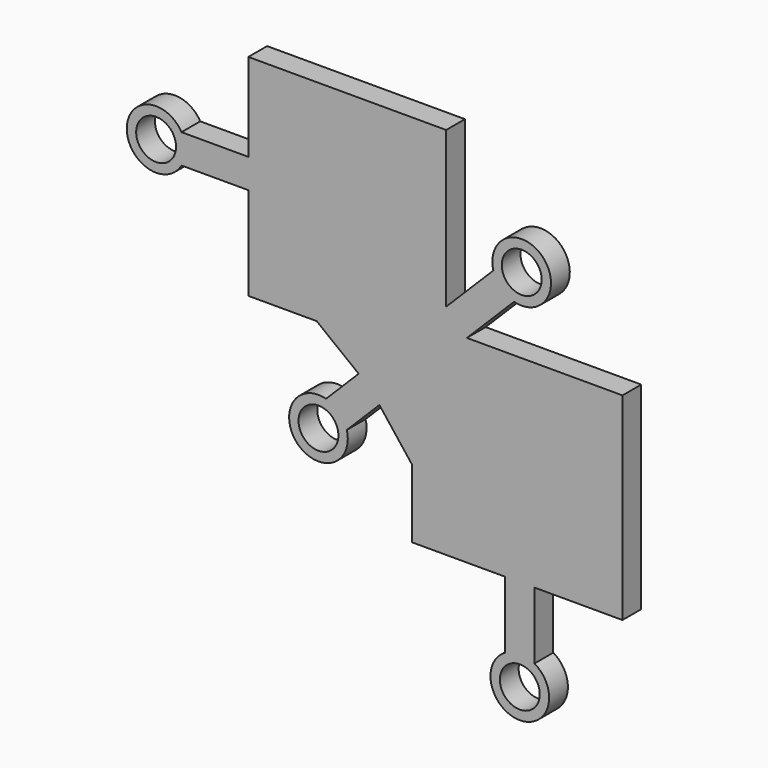
from build123d import *

# Parameters (mm, degrees)
F0_R                 = 4.445
F1_DEPTH             = 5.08
F2_R                 = 4.445
F3_DEPTH             = 25.4
F4_R                 = 4.318
F5_DEPTH             = 25.4
F8_D                 = 6.35
F8_DEPTH             = 22.86
F8_CBORE_D           = 6.35
F8_CBORE_DEPTH       = 12.7
F8_TIP               = 1.9077324654
F8_ON_F7_D           = 6.35
F8_ON_F7_DEPTH       = 22.86
F8_ON_F7_CBORE_D     = 6.35
F8_ON_F7_CBORE_DEPTH = 12.7
F8_ON_F7_TIP         = 1.9077324654


with BuildPart() as f1:
    # F0 (on Front) → F1 (new body)
    with BuildSketch(Plane.XZ):
        with BuildLine():
            Line((16.9093859117, 17.425267489), (27.1303756598, 27.6462572371))
            ThreePointArc((27.1303756598, 27.6462572371), (33.2640046568, 38.2700142946), (22.6402475993, 32.1363852977))
            Line((22.6402475993, 32.1363852977), (12.4192578512, 21.9153955495))
            Line((12.4192578512, 21.9153955495), (12.4192578512, 36.5455265367))
            Line((12.4192578512, 36.5455265367), (12.4192578512, 55.5955265367))
            Line((12.4192578512, 55.5955265367), (-30.3997510844, 55.5955265367))
            Line((-30.3997510844, 55.5955265367), (-30.3997510844, 36.5455265367))
            Line((-30.3997510844, 36.5455265367), (-44.8762217871, 36.5455265367))
            ThreePointArc((-44.8762217871, 36.5455265367), (-56.7254831011, 33.3705265367), (-44.8762217871, 30.1955265367))
            Line((-44.8762217871, 30.1955265367), (-30.3997510844, 30.1955265367))
            Line((-30.3997510844, 30.1955265367), (-30.3997510844, 16.4088443772))
            Line((-30.3997510844, 16.4088443772), (-30.3997510844, 10.0526214838))
            Line((-30.3997510844, 10.0526214838), (-15.6116463411, 10.0526214838))
            Line((-15.6116463411, 10.0526214838), (-6.5234490096, 2.9726886888))
            Line((-6.5234490096, 2.9726886888), (-13.581341862, -4.0852041636))
            ThreePointArc((-13.581341862, -4.0852041636), (-19.714970859, -14.7089612211), (-9.0912138015, -8.5753322242))
            Line((-9.0912138015, -8.5753322242), (-2.033320949, -1.5174393717))
            Line((-2.033320949, -1.5174393717), (5.046611846, -10.6056367033))
            Line((5.046611846, -10.6056367033), (5.046611846, -25.3937414465))
            Line((5.046611846, -25.3937414465), (11.4028347394, -25.3937414465))
            Line((11.4028347394, -25.3937414465), (25.1895168989, -25.3937414465))
            Line((25.1895168989, -25.3937414465), (25.1895168989, -39.8702121492))
            ThreePointArc((25.1895168989, -39.8702121492), (28.3645168989, -51.7194734633), (31.5395168989, -39.8702121492))
            Line((31.5395168989, -39.8702121492), (31.5395168989, -25.3937414465))
            Line((31.5395168989, -25.3937414465), (50.5895168989, -25.3937414465))
            Line((50.5895168989, -25.3937414465), (50.5895168989, 17.425267489))
            Line((50.5895168989, 17.425267489), (31.5395168989, 17.425267489))
            Line((31.5395168989, 17.425267489), (16.9093859117, 17.425267489))
        make_face()
        with Locations((22.6495168989, -7.2694734633)):
            Circle(F0_R, mode=Mode.SUBTRACT)
        with Locations((-12.2754831011, 27.6555265367)):
            Circle(F0_R, mode=Mode.SUBTRACT)
    extrude(amount=F1_DEPTH)

    # F2 (on face) → F3 (join)
    with BuildSketch(Plane.XZ.offset(5.08)):
        with Locations((-12.2754831011, 27.6555265367)):
            Circle(F2_R)
        with Locations((22.6495168989, -7.2694734633)):
            Circle(F2_R)
    extrude(amount=-F3_DEPTH)

    # F4 (on face) → F5 (cut)
    with BuildSketch(Plane(origin=(0, 0, 0), x_dir=(-1, 0, 0), z_dir=(0, 1, 0))):
        with Locations((-28.7738765962, 33.7798862341)):
            Circle(F4_R)
        with Locations((15.2248427984, -10.2188331606)):
            Circle(F4_R)
        with Locations((50.3754831011, 33.3705265367)):
            Circle(F4_R)
        with Locations((-28.3645168989, -45.3694734633)):
            Circle(F4_R)
    extrude(amount=-F5_DEPTH, mode=Mode.SUBTRACT)

    # F8
    with Locations(Plane(origin=(0, 20.32, 0), x_dir=(-1, 0, 0), z_dir=(0, 1, 0))):
        with Locations((-22.6495168989, -7.2694734633)):
            CounterBoreHole(F8_D / 2, F8_CBORE_D / 2, F8_CBORE_DEPTH, depth=F8_DEPTH)
            with Locations((0, 0, -(F8_DEPTH + F8_TIP / 2))):  # 118° drill point
                Cone(0, F8_D / 2, F8_TIP, mode=Mode.SUBTRACT)

    # F8 on F7
    with Locations(Plane(origin=(0, 20.32, 0), x_dir=(-1, 0, 0), z_dir=(0, 1, 0))):
        with Locations((12.2754831011, 27.6555265367)):
            CounterBoreHole(F8_ON_F7_D / 2, F8_ON_F7_CBORE_D / 2, F8_ON_F7_CBORE_DEPTH, depth=F8_ON_F7_DEPTH)
            with Locations((0, 0, -(F8_ON_F7_DEPTH + F8_ON_F7_TIP / 2))):  # 118° drill point
                Cone(0, F8_ON_F7_D / 2, F8_ON_F7_TIP, mode=Mode.SUBTRACT)


solid = f1.part
